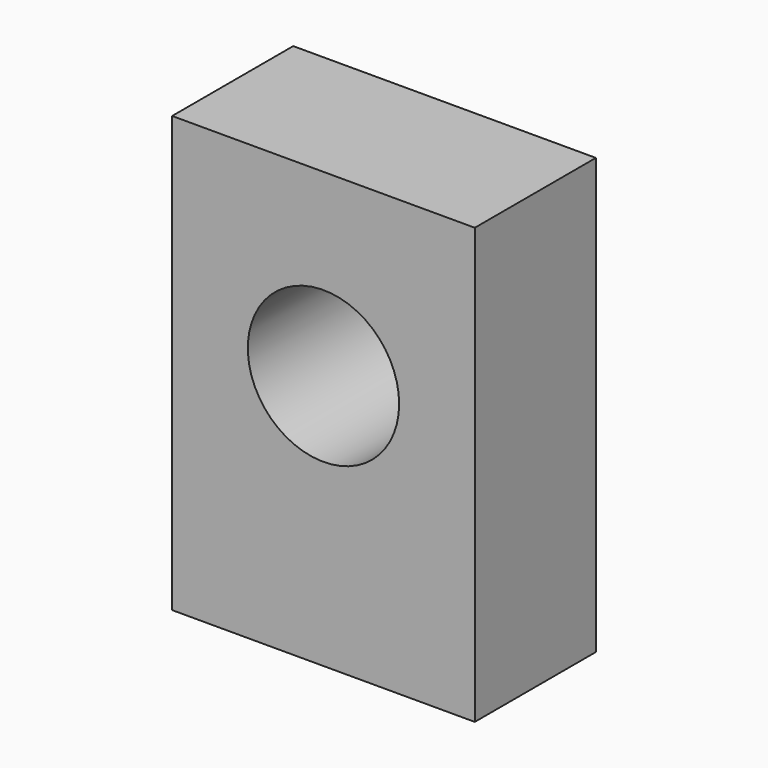
from build123d import *

# Parameters (mm, degrees)
SKETCH_W  = 8
SKETCH_H  = 11.5
SKETCH_R  = 2
PAD_DEPTH = 4


with BuildPart() as part:
    # Sketch → Pad (new body)
    with BuildSketch(Plane.XZ):
        with Locations((4, 5.75)):
            Rectangle(SKETCH_W, SKETCH_H)
        with Locations((4, 6.75)):
            Circle(SKETCH_R, mode=Mode.SUBTRACT)
    extrude(amount=PAD_DEPTH)


solid = part.part
